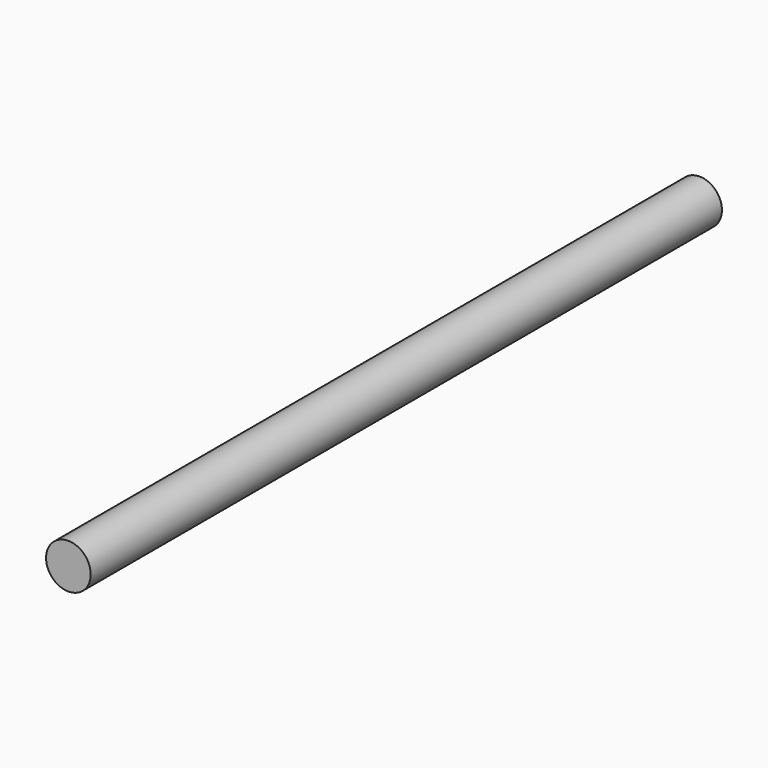
from build123d import *

# Parameters (mm, degrees)
F0_R     = 1.5
F1_DEPTH = 53
F3_ANGLE = 90


with BuildPart() as f1:
    # F0 (on Top) → F1 (new body)
    with BuildSketch(Plane.XY):
        Circle(F0_R)
    extrude(amount=F1_DEPTH)


with BuildPart() as f1_1:
    # F3: moved
    add(f1.part.rotate(Axis((3.824475, 0, 0), (1, 0, 0)), F3_ANGLE))


solid = f1_1.part
